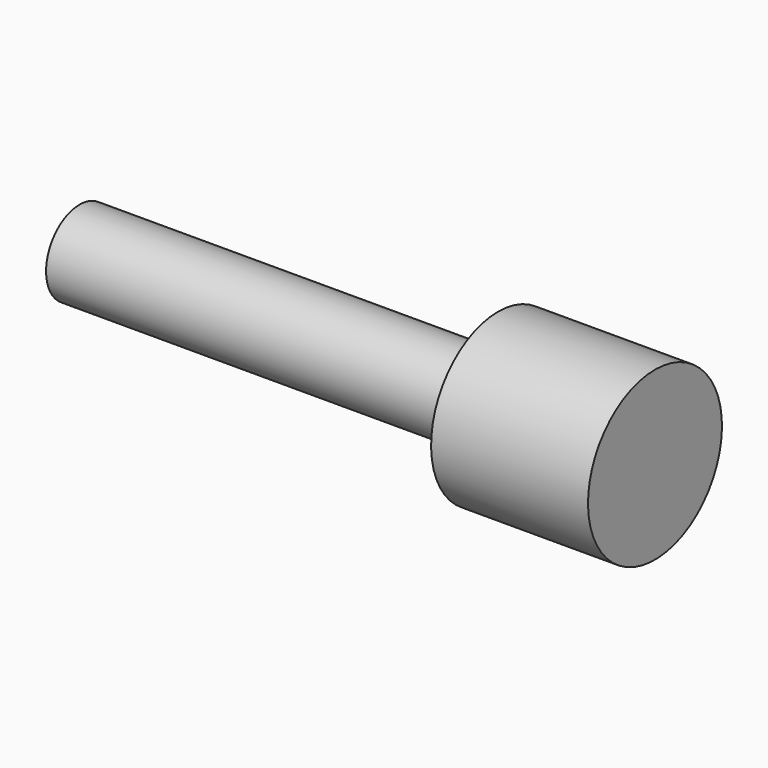
from build123d import *


with BuildPart() as f1:
    # F0 (on Front) → F1 (revolve)
    with BuildSketch(Plane.XZ):
        Polygon((0, 2.54), (0, 0), (34.925, 0), (34.925, 2.54), (34.925, 5.08), (25.4, 5.08), (25.4, 2.54), align=None)
        Polygon((0, 2.54), (0, 0), (34.925, 0), (34.925, 2.54), (34.925, 5.08), (25.4, 5.08), (25.4, 2.54), align=None)
    revolve(axis=Axis((17.4625, 0, 0), (1, 0, 0)))


solid = f1.part
